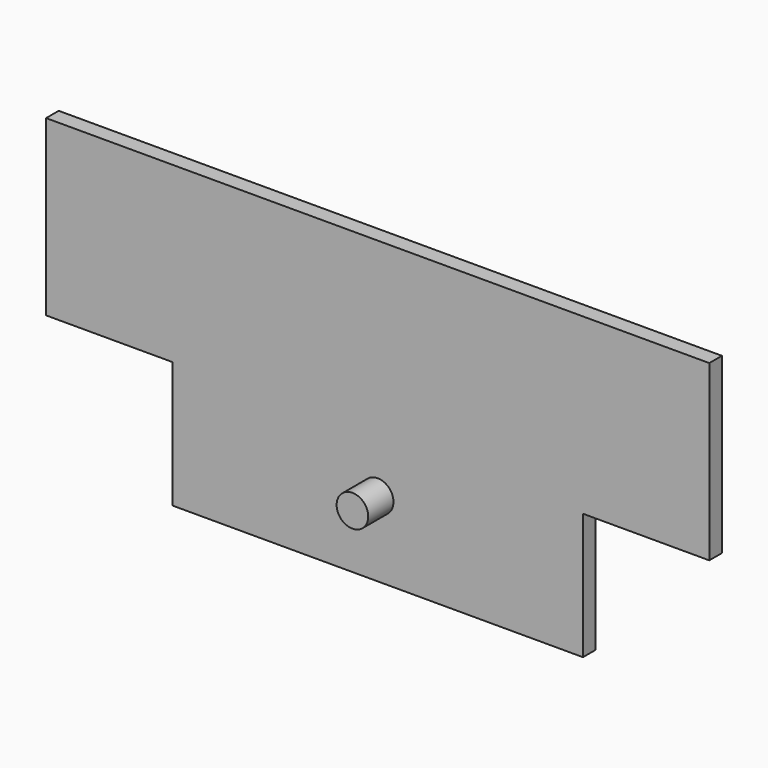
from build123d import *

# Parameters (mm, degrees)
F0_R     = 3.175
F1_DEPTH = 3.175
F2_DEPTH = 9.525


with BuildPart() as f1:
    # F0 (on Front) → F1 (new body)
    with BuildSketch(Plane.XZ):
        Polygon((63.066042, -4.7625), (63.066042, 30.1625), (-70.283958, 30.1625), (-70.283958, -4.7625), (-44.883958, -4.7625), (-44.883958, -30.1625), (37.666042, -30.1625), (37.666042, -4.7625), align=None)
        with Locations((-3.608958, -15.0749)):
            Circle(F0_R, mode=Mode.SUBTRACT)
    extrude(amount=F1_DEPTH)

    # F0 (on Front) → F2 (join)
    with BuildSketch(Plane.XZ):
        with Locations((-3.608958, -15.0749)):
            Circle(F0_R)
    extrude(amount=F2_DEPTH)


solid = f1.part
